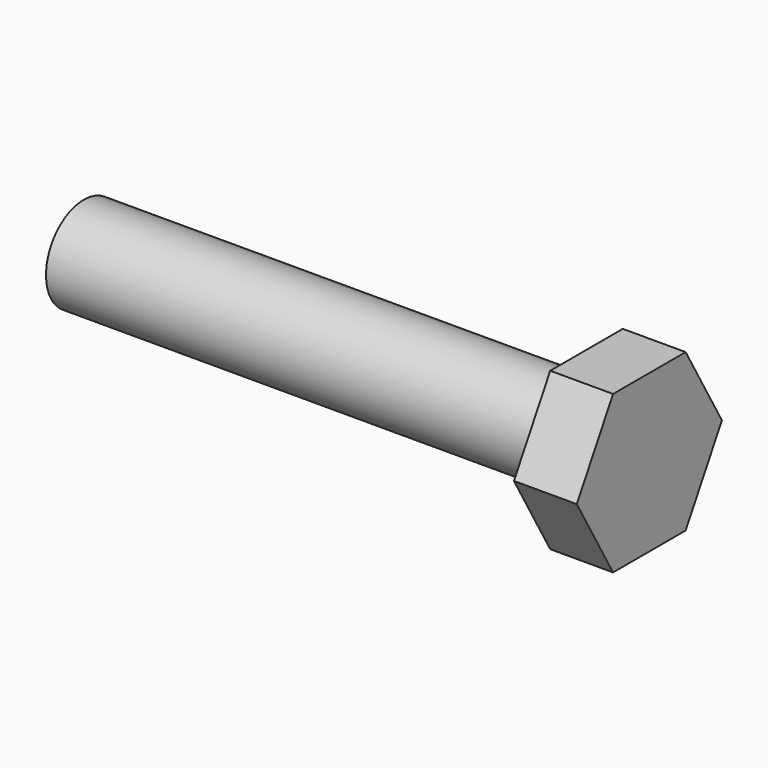
from build123d import *

# Parameters (mm, degrees)
F0_R     = 4.7625
F1_DEPTH = 50.8
F3_DEPTH = 6.35


with BuildPart() as f1:
    # F0 (on Right) → F1 (new body)
    with BuildSketch(Plane.YZ):
        Circle(F0_R)
    extrude(amount=F1_DEPTH)

    # F2 (on face) → F3 (join)
    with BuildSketch(Plane.YZ.offset(50.8)):
        Polygon((4.582718, 7.9375), (-4.582718, 7.9375), (-9.165436, 0), (-4.582718, -7.9375), (4.582718, -7.9375), (9.165436, 0), align=None)
    extrude(amount=F3_DEPTH)


solid = f1.part
